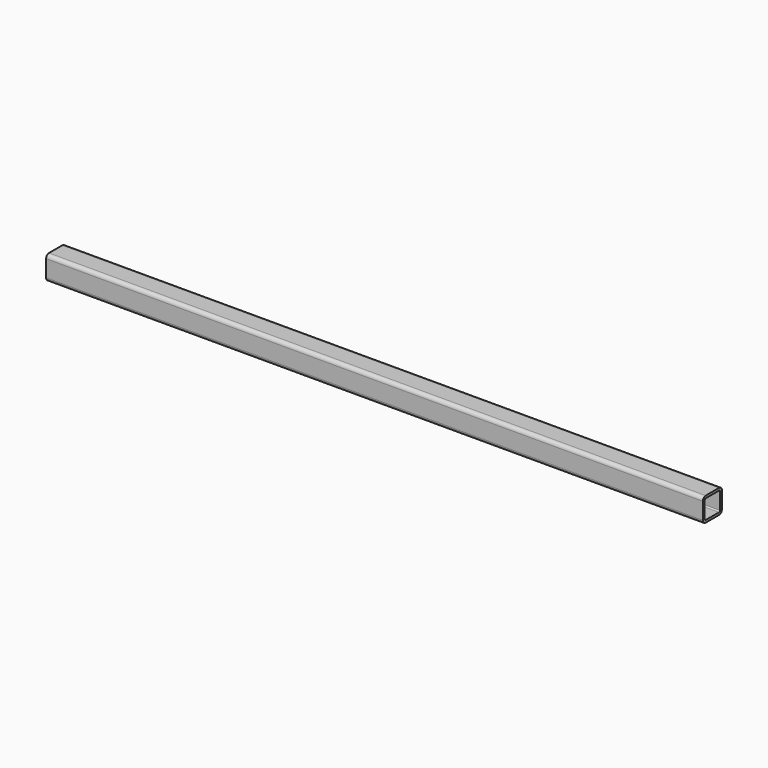
from build123d import *

# Parameters (mm, degrees)
F1_DEPTH = 137.5


with BuildPart() as f1:
    # F0 (on Right) → F1 (new body, symmetric)
    with BuildSketch(Plane.YZ):
        with BuildLine():
            Line((-3.5, -5), (3.5, -5))
            ThreePointArc((3.5, -5), (4.56066, -4.56066), (5, -3.5))
            Line((5, -3.5), (5, 3.5))
            ThreePointArc((5, 3.5), (4.56066, 4.56066), (3.5, 5))
            Line((3.5, 5), (-3.5, 5))
            ThreePointArc((-3.5, 5), (-4.56066, 4.56066), (-5, 3.5))
            Line((-5, 3.5), (-5, -3.5))
            ThreePointArc((-5, -3.5), (-4.56066, -4.56066), (-3.5, -5))
        make_face()
        with BuildLine():
            Line((3.5, -4), (-3.5, -4))
            ThreePointArc((-3.5, -4), (-3.853553, -3.853553), (-4, -3.5))
            Line((-4, -3.5), (-4, 3.5))
            ThreePointArc((-4, 3.5), (-3.853553, 3.853553), (-3.5, 4))
            Line((-3.5, 4), (3.5, 4))
            ThreePointArc((3.5, 4), (3.853553, 3.853553), (4, 3.5))
            Line((4, 3.5), (4, -3.5))
            ThreePointArc((4, -3.5), (3.853553, -3.853553), (3.5, -4))
        make_face(mode=Mode.SUBTRACT)
    extrude(amount=F1_DEPTH, both=True)


solid = f1.part
